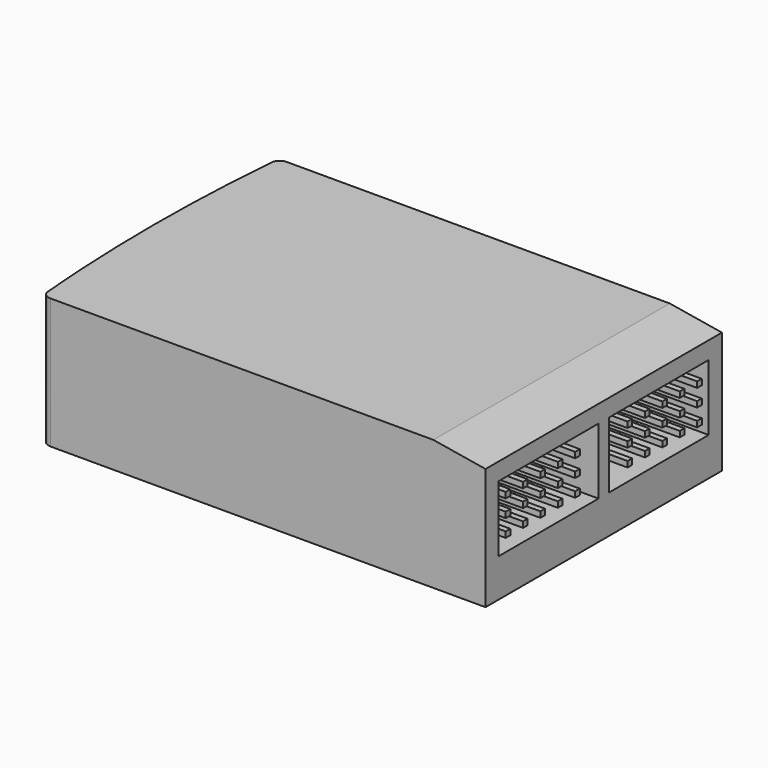
from build123d import *

# Parameters (mm, degrees)
F1_DEPTH = 15
F2_SIZE2 = 6
F2_SIZE  = 1
F3_W     = 0.66
F3_H     = 0.66
F4_DEPTH = 6.5
F5_R     = 1


with BuildPart() as f1:
    # F0 (on Top) → F1 (new body)
    with BuildSketch(Plane.XY):
        with BuildLine():
            Line((42.301387, 28.022311), (-8.698613, 28.022311))
            ThreePointArc((-8.698613, 28.022311), (-9.46174, 11.022311), (-8.698613, -5.977689))
            Line((-8.698613, -5.977689), (42.301387, -5.977689))
            Line((42.301387, -5.977689), (42.301387, 28.022311))
        make_face()
    extrude(amount=F1_DEPTH)

    # F2
    f2_edges = [f1.edges().sort_by_distance(p)[0] for p in [
        (42.301387, 11.022311, 15),
    ]]
    chamfer(f2_edges, length=F2_SIZE, length2=F2_SIZE2)

    # F3 (on face) → F4 (cut)
    with BuildSketch(Plane.YZ.offset(42.301387)):
        Polygon((9.922311, 12), (-4.077689, 12), (-4.077689, 4.4), (9.922311, 4.4), (10.272311, 4.4), (10.272311, 12), align=None)
        with Locations((-2.747689, 6.17)):
            Rectangle(F3_W, F3_H, mode=Mode.SUBTRACT)
        with Locations((-0.247689, 6.17)):
            Rectangle(F3_W, F3_H, mode=Mode.SUBTRACT)
        with Locations((2.252311, 6.17)):
            Rectangle(F3_W, F3_H, mode=Mode.SUBTRACT)
        with Locations((4.752311, 6.17)):
            Rectangle(F3_W, F3_H, mode=Mode.SUBTRACT)
        with Locations((7.252311, 6.17)):
            Rectangle(F3_W, F3_H, mode=Mode.SUBTRACT)
        with Locations((-2.747689, 8.17)):
            Rectangle(F3_W, F3_H, mode=Mode.SUBTRACT)
        with Locations((-0.247689, 8.17)):
            Rectangle(F3_W, F3_H, mode=Mode.SUBTRACT)
        with Locations((2.252311, 8.17)):
            Rectangle(F3_W, F3_H, mode=Mode.SUBTRACT)
        with Locations((4.752311, 8.17)):
            Rectangle(F3_W, F3_H, mode=Mode.SUBTRACT)
        with Locations((7.252311, 8.17)):
            Rectangle(F3_W, F3_H, mode=Mode.SUBTRACT)
        with Locations((-2.747689, 10.17)):
            Rectangle(F3_W, F3_H, mode=Mode.SUBTRACT)
        with Locations((-0.247689, 10.17)):
            Rectangle(F3_W, F3_H, mode=Mode.SUBTRACT)
        with Locations((2.252311, 10.17)):
            Rectangle(F3_W, F3_H, mode=Mode.SUBTRACT)
        with Locations((4.752311, 10.17)):
            Rectangle(F3_W, F3_H, mode=Mode.SUBTRACT)
        with Locations((7.252311, 10.17)):
            Rectangle(F3_W, F3_H, mode=Mode.SUBTRACT)
        Polygon((12.122311, 12), (11.772311, 12), (11.772311, 4.4), (12.122311, 4.4), (26.122311, 4.4), (26.122311, 12), align=None)
        with Locations((14.792311, 6.17)):
            Rectangle(F3_W, F3_H, mode=Mode.SUBTRACT)
        with Locations((17.292311, 6.17)):
            Rectangle(F3_W, F3_H, mode=Mode.SUBTRACT)
        with Locations((19.792311, 6.17)):
            Rectangle(F3_W, F3_H, mode=Mode.SUBTRACT)
        with Locations((22.292311, 6.17)):
            Rectangle(F3_W, F3_H, mode=Mode.SUBTRACT)
        with Locations((24.792311, 6.17)):
            Rectangle(F3_W, F3_H, mode=Mode.SUBTRACT)
        with Locations((14.792311, 8.17)):
            Rectangle(F3_W, F3_H, mode=Mode.SUBTRACT)
        with Locations((17.292311, 8.17)):
            Rectangle(F3_W, F3_H, mode=Mode.SUBTRACT)
        with Locations((19.792311, 8.17)):
            Rectangle(F3_W, F3_H, mode=Mode.SUBTRACT)
        with Locations((22.292311, 8.17)):
            Rectangle(F3_W, F3_H, mode=Mode.SUBTRACT)
        with Locations((24.792311, 8.17)):
            Rectangle(F3_W, F3_H, mode=Mode.SUBTRACT)
        with Locations((14.792311, 10.17)):
            Rectangle(F3_W, F3_H, mode=Mode.SUBTRACT)
        with Locations((17.292311, 10.17)):
            Rectangle(F3_W, F3_H, mode=Mode.SUBTRACT)
        with Locations((19.792311, 10.17)):
            Rectangle(F3_W, F3_H, mode=Mode.SUBTRACT)
        with Locations((22.292311, 10.17)):
            Rectangle(F3_W, F3_H, mode=Mode.SUBTRACT)
        with Locations((24.792311, 10.17)):
            Rectangle(F3_W, F3_H, mode=Mode.SUBTRACT)
    extrude(amount=-F4_DEPTH, mode=Mode.SUBTRACT)

    # F5
    f5_edges = [f1.edges().sort_by_distance(p)[0] for p in [
        (-8.698613, -5.977689, 7.5),
        (-8.698613, 28.022311, 7.5),
    ]]
    fillet(f5_edges, radius=F5_R)


solid = f1.part
